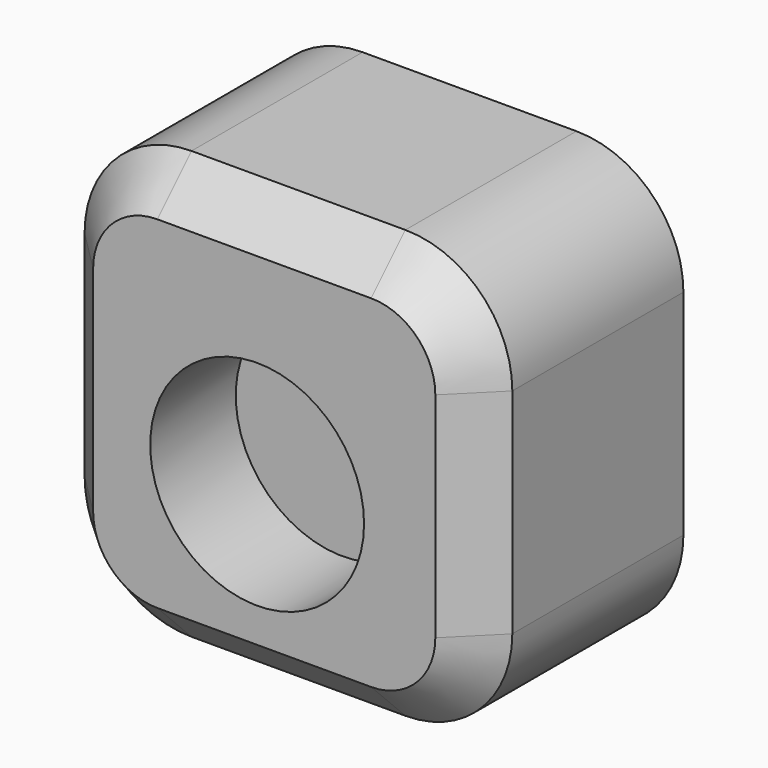
from build123d import *

# Parameters (mm, degrees)
F1_DEPTH = 60
F2_SIZE  = 10
F3_R     = 25
F4_DEPTH = 25


with BuildPart() as f1:
    # F0 (on Front) → F1 (new body)
    with BuildSketch(Plane.XZ):
        with BuildLine():
            Line((26.660392, 80.263265), (-23.339608, 80.263265))
            ThreePointArc((-23.339608, 80.263265), (-41.017278, 72.940934), (-48.339608, 55.263265))
            Line((-48.339608, 55.263265), (-48.339608, 5.263265))
            ThreePointArc((-48.339608, 5.263265), (-41.017278, -12.414405), (-23.339608, -19.736735))
            Line((-23.339608, -19.736735), (26.660392, -19.736735))
            ThreePointArc((26.660392, -19.736735), (44.338061, -12.414405), (51.660392, 5.263265))
            Line((51.660392, 5.263265), (51.660392, 55.263265))
            ThreePointArc((51.660392, 55.263265), (44.338061, 72.940934), (26.660392, 80.263265))
        make_face()
    extrude(amount=F1_DEPTH)

    # F2
    f2_edges = [f1.edges().sort_by_distance(p)[0] for p in [
        (51.660392, -60, 30.263265),
        (44.338061, -60, 72.940934),
        (1.660392, -60, 80.263265),
        (-41.017278, -60, 72.940934),
        (-48.339608, -60, 30.263265),
        (-41.017278, -60, -12.414405),
        (1.660392, -60, -19.736735),
        (44.338061, -60, -12.414405),
    ]]
    chamfer(f2_edges, length=F2_SIZE)

    # F3 (on face) → F4 (cut)
    with BuildSketch(Plane.XZ.offset(60)):
        with Locations((0, 23.312023)):
            Circle(F3_R)
    extrude(amount=-F4_DEPTH, mode=Mode.SUBTRACT)


solid = f1.part
